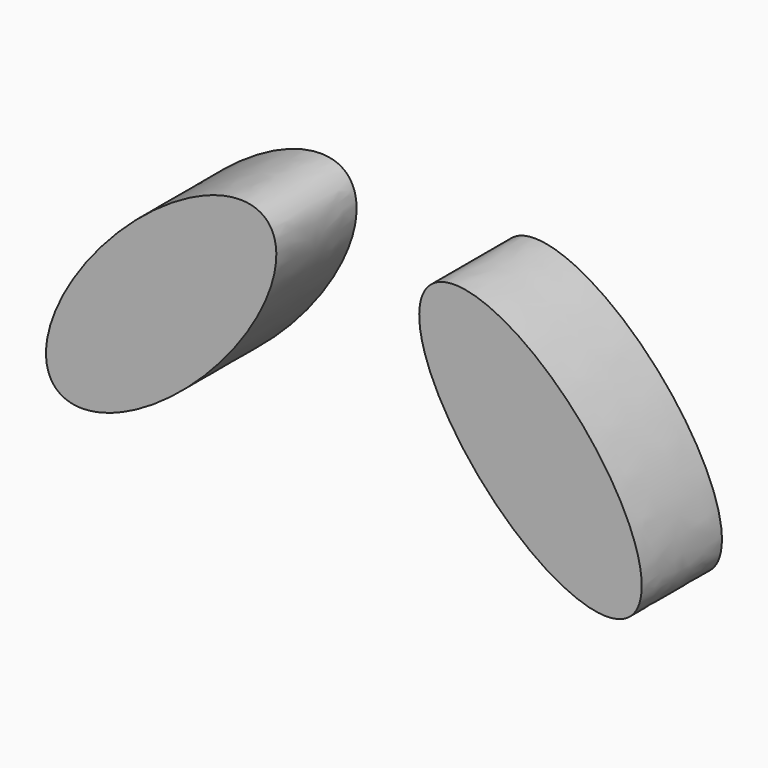
from build123d import *

# Parameters (mm, degrees)
F0_R     = 3.480992
F1_DEPTH = 5
F3_DEPTH = 10


with BuildPart() as f1:
    # F0 (on Front) → F1 (new body)
    with BuildSketch(Plane.XZ):
        with BuildLine():
            add(Edge.make_bspline(
                [(-19.630878, 15.479943), (-25.782564, 28.721323), (-36.250994, 51.599465), (-17.085214, 17.174545), (-14.357393, 20.466198)],
                knots=[0, 0, 0, 0, 23.414912, 45.351109, 45.351109, 45.351109, 45.351109], degree=3))
            ThreePointArc((-19.630878, 15.479943), (-5.294251, -24.432988), (24.277798, 5.965611))
            add(Edge.make_bspline(
                [(20.752836, 13.939864), (23.455058, 7.946182), (55.485364, 16.278042), (34.507719, 9.243534), (24.277798, 5.965611)],
                knots=[151.565837, 151.565837, 151.565837, 151.565837, 173.378727, 192.738798, 192.738798, 192.738798, 192.738798], degree=3))
            add(Edge.make_bspline(
                [(10.038018, 22.896249), (14.413081, 21.006528), (34.36055, 44.016398), (18.439163, 19.071721), (20.752836, 13.939864)],
                knots=[115.060143, 115.060143, 115.060143, 115.060143, 132.889398, 151.565837, 151.565837, 151.565837, 151.565837], degree=3))
            add(Edge.make_bspline(
                [(-6.263032, 24.202777), (-1.993937, 23.078036), (7.695011, 55.851143), (5.681296, 24.778047), (10.038018, 22.896249)],
                knots=[78.033185, 78.033185, 78.033185, 78.033185, 97.305635, 115.060143, 115.060143, 115.060143, 115.060143], degree=3))
            add(Edge.make_bspline(
                [(-14.357393, 20.466198), (-12.197474, 23.072565), (-15.85166, 51.50322), (-9.655005, 25.096431), (-6.263032, 24.202777)],
                knots=[45.351109, 45.351109, 45.351109, 45.351109, 62.720425, 78.033185, 78.033185, 78.033185, 78.033185], degree=3))
        make_face()
        with BuildLine():
            ThreePointArc((21.467222, 0), (0.994824, -19.925986), (-19.477574, 0))
            add(Edge.make_bspline(
                [(-19.477574, 0), (-16.428945, -4.158768), (-10.728277, -11.782042), (4.053888, -13.634451), (15.787261, -9.391006), (20.048541, -2.433091), (21.467222, 0)],
                knots=[0, 0, 0, 0, 14.144704, 28.571506, 40.63047, 50.285577, 50.285577, 50.285577, 50.285577], degree=3))
        make_face(mode=Mode.SUBTRACT)
        Circle(F0_R, mode=Mode.SUBTRACT)
    extrude(amount=F1_DEPTH)

    # F2 (on face) → F3 (intersect)
    with BuildSketch(Plane.XZ.offset(5)):
        with BuildLine():
            add(Edge.make_bspline(
                [(-3.705546, 16.11947), (-7.745884, 20.037373), (-13.59405, 9.9642), (-19.442216, -0.108973), (-9.553712, 6.046297), (0.334793, 12.201566), (-3.705546, 16.11947)],
                knots=[0, 0, 0, 2.094395, 2.094395, 4.18879, 4.18879, 6.283185, 6.283185, 6.283185], degree=2, weights=[1, 0.5, 1, 0.5, 1, 0.5, 1]))
        make_face()
        with BuildLine():
            add(Edge.make_bspline(
                [(4.476992, 15.922466), (0.252788, 12.203541), (9.833617, 5.579525), (19.414445, -1.044492), (14.05782, 9.29845), (8.701196, 19.641391), (4.476992, 15.922466)],
                knots=[0, 0, 0, 2.094395, 2.094395, 4.18879, 4.18879, 6.283185, 6.283185, 6.283185], degree=2, weights=[1, 0.5, 1, 0.5, 1, 0.5, 1]))
        make_face()
    extrude(amount=-F3_DEPTH, mode=Mode.INTERSECT)


solid = f1.part
